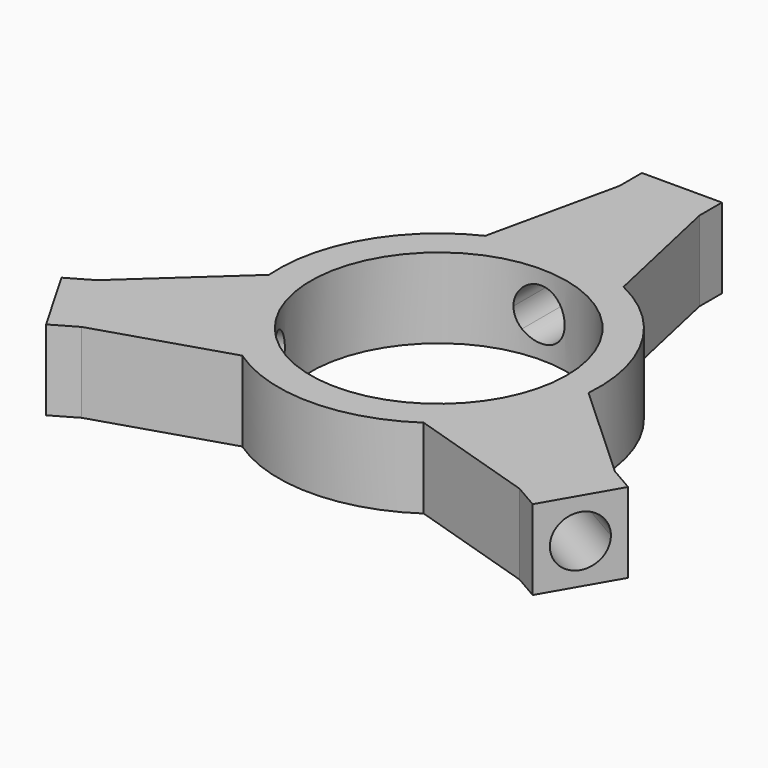
from build123d import *

# Parameters (mm, degrees)
F0_R     = 8
F1_DEPTH = 5
F3_DEPTH = 15
F5_DEPTH = 15
F7_DEPTH = 15


with BuildPart() as f1:
    # F0 (on Top) → F1 (new body)
    with BuildSketch(Plane.XY):
        with BuildLine():
            Line((2.5, 17.2409396496), (2.5, 19))
            Line((2.5, 19), (-2.5, 19))
            Line((-2.5, 19), (-2.5, 17.2409396496))
            Line((-2.5, 17.2409396496), (-4.3183749452, 9.0387803215))
            ThreePointArc((-4.3183749452, 9.0387803215), (-8.6753059831, 5.0086902446), (-9.9870008502, -0.7795677551))
            Line((-9.9870008502, -0.7795677551), (-16.1810917216, -6.4554063153))
            Line((-16.1810917216, -6.4554063153), (-17.7044826719, -7.3349364905))
            Line((-17.7044826719, -7.3349364905), (-15.2044826719, -11.6650635095))
            Line((-15.2044826719, -11.6650635095), (-13.6810917216, -10.7855333342))
            Line((-13.6810917216, -10.7855333342), (-5.668625905, -8.2592125663))
            ThreePointArc((-5.668625905, -8.2592125663), (0, -10.0173804893), (5.668625905, -8.2592125663))
            Line((5.668625905, -8.2592125663), (13.6810917216, -10.7855333342))
            Line((13.6810917216, -10.7855333342), (15.2044826719, -11.6650635095))
            Line((15.2044826719, -11.6650635095), (17.7044826719, -7.3349364905))
            Line((17.7044826719, -7.3349364905), (16.1810917216, -6.4554063153))
            Line((16.1810917216, -6.4554063153), (9.9870008502, -0.7795677551))
            ThreePointArc((9.9870008502, -0.7795677551), (8.6753059831, 5.0086902446), (4.3183749452, 9.0387803215))
            Line((4.3183749452, 9.0387803215), (2.5, 17.2409396496))
        make_face()
        Circle(F0_R, mode=Mode.SUBTRACT)
    extrude(amount=F1_DEPTH)

    # F2 (on face) → F3 (cut)
    with BuildSketch(Plane(origin=(16.4544826719, -9.5, 0), x_dir=(0.5, 0.8660254038, 0), z_dir=(0.8660254038, -0.5, 0))):
        with BuildLine():
            ThreePointArc((1.6, 2.5), (1.478207252, 3.1122934918), (1.1313708499, 3.6313708499))
            Line((1.1313708499, 3.6313708499), (-1.1313708499, 1.3686291501))
            ThreePointArc((-1.1313708499, 1.3686291501), (0.6122934918, 1.021792748), (1.6, 2.5))
        make_face()
        with BuildLine():
            Line((-1.1313708499, 1.3686291501), (1.1313708499, 3.6313708499))
            ThreePointArc((1.1313708499, 3.6313708499), (-1.1313708499, 3.6313708499), (-1.1313708499, 1.3686291501))
        make_face()
    extrude(amount=-F3_DEPTH, mode=Mode.SUBTRACT)

    # F4 (on face) → F5 (cut)
    with BuildSketch(Plane(origin=(0, 19, 0), x_dir=(-1, 0, 0), z_dir=(0, 1, 0))):
        with BuildLine():
            Line((-1.1313708499, 3.6313708499), (1.1313708499, 1.3686291501))
            ThreePointArc((1.1313708499, 1.3686291501), (1.478207252, 1.8877065082), (1.6, 2.5))
            ThreePointArc((1.6, 2.5), (0.6122934918, 3.978207252), (-1.1313708499, 3.6313708499))
        make_face()
        with BuildLine():
            ThreePointArc((-1.1313708499, 3.6313708499), (-1.1313708499, 1.3686291501), (1.1313708499, 1.3686291501))
            Line((1.1313708499, 1.3686291501), (-1.1313708499, 3.6313708499))
        make_face()
    extrude(amount=-F5_DEPTH, mode=Mode.SUBTRACT)

    # F6 (on face) → F7 (cut)
    with BuildSketch(Plane(origin=(-16.4544826719, -9.5, 0), x_dir=(0.5, -0.8660254038, 0), z_dir=(-0.8660254038, -0.5, 0))):
        with BuildLine():
            ThreePointArc((1.1313708499, 3.6313708499), (-1.1313708499, 3.6313708499), (-1.1313708499, 1.3686291501))
            Line((-1.1313708499, 1.3686291501), (1.1313708499, 3.6313708499))
        make_face()
        with BuildLine():
            Line((1.1313708499, 3.6313708499), (-1.1313708499, 1.3686291501))
            ThreePointArc((-1.1313708499, 1.3686291501), (0.6122934918, 1.021792748), (1.6, 2.5))
            ThreePointArc((1.6, 2.5), (1.478207252, 3.1122934918), (1.1313708499, 3.6313708499))
        make_face()
    extrude(amount=-F7_DEPTH, mode=Mode.SUBTRACT)


solid = f1.part
